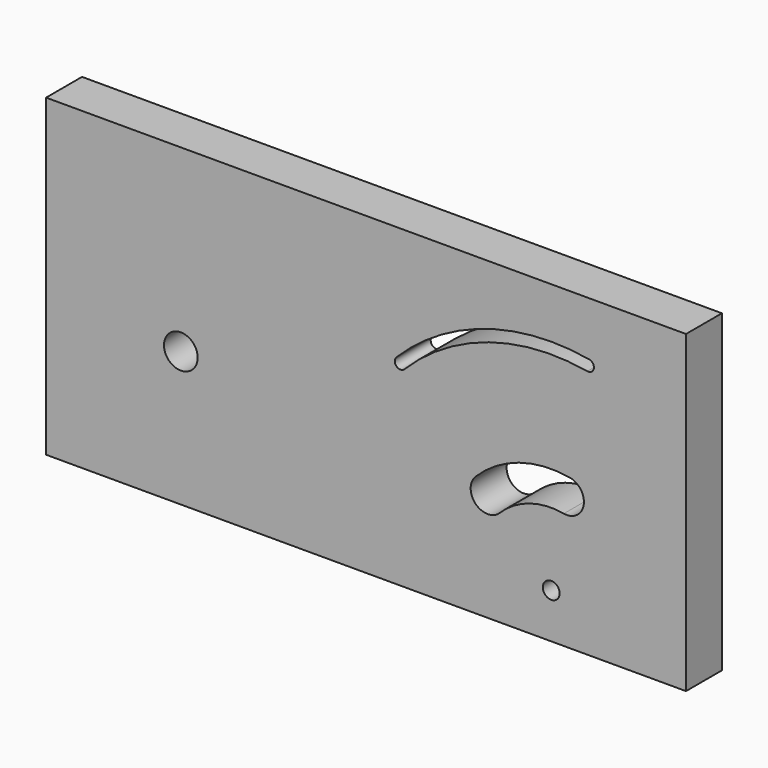
from build123d import *

# Parameters (mm, degrees)
F1_W     = 361.869892
F1_H     = 177.8
F1_R     = 9.525
F1_R_2   = 4.7625
F2_DEPTH = 25.4


with BuildPart() as f2:
    # F1 (on Front) → F2 (new body)
    with BuildSketch(Plane.XZ):
        with Locations((104.734946, 12.7)):
            Rectangle(F1_W, F1_H)
        Circle(F1_R, mode=Mode.SUBTRACT)
        with Locations((209.4738, -50.8)):
            Circle(F1_R_2, mode=Mode.SUBTRACT)
        with BuildLine():
            ThreePointArc((216.619075, -10.277131), (197.100358, -11.556455), (180.37777, -21.70397))
            ThreePointArc((180.37777, -21.70397), (166.727781, -21.70397), (166.727781, -8.053981))
            ThreePointArc((166.727781, -8.053981), (191.295533, 6.854097), (219.97118, 8.733598))
            ThreePointArc((219.97118, 8.733598), (227.800492, -2.447818), (216.619075, -10.277131))
        make_face(mode=Mode.SUBTRACT)
        with BuildLine():
            ThreePointArc((229.87312, 64.890291), (174.148386, 61.237899), (126.406431, 32.267369))
            ThreePointArc((126.406431, 32.267369), (121.916303, 32.267369), (121.916303, 36.757497))
            ThreePointArc((121.916303, 36.757497), (172.238904, 67.294001), (230.975786, 71.14382))
            ThreePointArc((230.975786, 71.14382), (233.551217, 67.465722), (229.87312, 64.890291))
        make_face(mode=Mode.SUBTRACT)
    extrude(amount=-F2_DEPTH)


solid = f2.part
